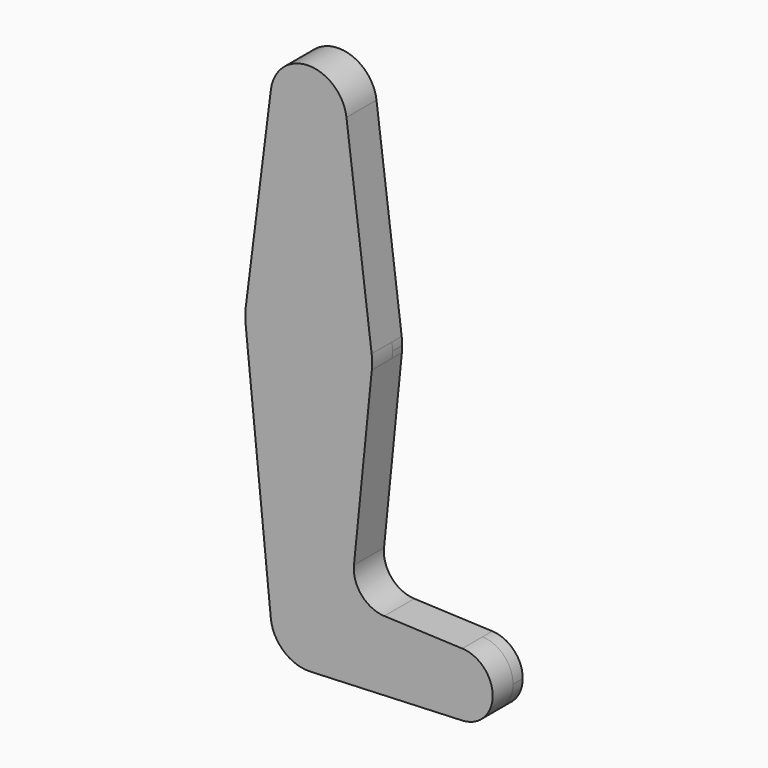
from build123d import *

# Parameters (mm, degrees)
F0_R     = 3.175
F1_DEPTH = 3.048
F3_DEPTH = 6.35


with BuildPart() as f1:
    # F0 (on Front) → F1 (new body)
    with BuildSketch(Plane.XZ):
        with BuildLine():
            ThreePointArc((-9.450293, 115.490625), (-0.596483, 104.793695), (9.525, 114.3))
            ThreePointArc((9.525, 114.3), (9.506305, 114.896483), (9.450293, 115.490625))
            ThreePointArc((9.450293, 115.490625), (0, 123.825), (-9.450293, 115.490625))
        make_face()
        with Locations((0, 114.3)):
            Circle(F0_R, mode=Mode.SUBTRACT)
        with BuildLine():
            ThreePointArc((9.450293, 115.490625), (9.506305, 114.896483), (9.525, 114.3))
            ThreePointArc((9.525, 114.3), (-0.596483, 104.793695), (-9.450293, 115.490625))
            Line((-9.450293, 115.490625), (-15.750488, 65.484375))
            ThreePointArc((-15.750488, 65.484375), (0, 79.375), (15.750488, 65.484375))
            Line((15.750488, 65.484375), (9.450293, 115.490625))
        make_face()
        with Locations((-3.175, 100.0252)):
            Circle(F0_R, mode=Mode.SUBTRACT)
        with BuildLine():
            ThreePointArc((15.875, 63.5), (15.843841, 64.494139), (15.750488, 65.484375))
            ThreePointArc((15.750488, 65.484375), (0, 79.375), (-15.750488, 65.484375))
            ThreePointArc((-15.750488, 65.484375), (-15.873744, 63.699705), (-15.795426, 61.9125))
            ThreePointArc((-15.795426, 61.9125), (0, 47.625), (15.795426, 61.9125))
            ThreePointArc((15.795426, 61.9125), (15.855094, 62.705253), (15.875, 63.5))
        make_face()
        with Locations((0, 63.5)):
            Circle(F0_R, mode=Mode.SUBTRACT)
        with BuildLine():
            ThreePointArc((15.795426, 61.9125), (0, 47.625), (-15.795426, 61.9125))
            Line((-15.795426, 61.9125), (-9.477255, -0.9525))
            ThreePointArc((-9.477255, -0.9525), (-0.476848, 9.513056), (9.525, 0))
            ThreePointArc((9.525, 0), (6.874077, -6.593383), (0.396875, -9.516728))
            Line((0.396875, -9.516728), (38.430729, -7.930607))
            ThreePointArc((38.430729, -7.930607), (30.1625, 0), (38.430729, 7.930607))
            Line((38.430729, 7.930607), (18.909186, 8.744711))
            ThreePointArc((18.909186, 8.744711), (13.234567, 11.478869), (11.330096, 17.483027))
            Line((11.330096, 17.483027), (15.795426, 61.9125))
        make_face()
        with BuildLine():
            ThreePointArc((9.525, 0), (-0.476848, 9.513056), (-9.477255, -0.9525))
            ThreePointArc((-9.477255, -0.9525), (-6.24098, -7.19554), (0.396875, -9.516728))
            ThreePointArc((0.396875, -9.516728), (6.874077, -6.593383), (9.525, 0))
        make_face()
        Circle(F0_R, mode=Mode.SUBTRACT)
        with BuildLine():
            ThreePointArc((38.430729, 7.930607), (30.1625, 0), (38.430729, -7.930607))
            ThreePointArc((38.430729, -7.930607), (43.828397, -5.494486), (46.0375, 0))
            ThreePointArc((46.0375, 0), (43.828397, 5.494486), (38.430729, 7.930607))
        make_face()
        with Locations((38.1, 0)):
            Circle(F0_R, mode=Mode.SUBTRACT)
    extrude(amount=F1_DEPTH)

    # F2 (on face) → F3 (join)
    with BuildSketch(Plane.XZ.offset(3.048)):
        with BuildLine():
            Line((15.750488, 65.484375), (9.450293, 115.490625))
            ThreePointArc((9.450293, 115.490625), (0, 123.825), (-9.450293, 115.490625))
            Line((-9.450293, 115.490625), (-15.750488, 65.484375))
            ThreePointArc((-15.750488, 65.484375), (-15.873744, 63.699705), (-15.795426, 61.9125))
            Line((-15.795426, 61.9125), (-9.477255, -0.9525))
            ThreePointArc((-9.477255, -0.9525), (-6.24098, -7.19554), (0.396875, -9.516728))
            Line((0.396875, -9.516728), (38.430729, -7.930607))
            ThreePointArc((38.430729, -7.930607), (46.0375, 0), (38.430729, 7.930607))
            Line((38.430729, 7.930607), (18.909186, 8.744711))
            ThreePointArc((18.909186, 8.744711), (13.234567, 11.478869), (11.330096, 17.483027))
            Line((11.330096, 17.483027), (15.795426, 61.9125))
            ThreePointArc((15.795426, 61.9125), (15.873744, 63.699705), (15.750488, 65.484375))
        make_face()
    extrude(amount=F3_DEPTH)


solid = f1.part
